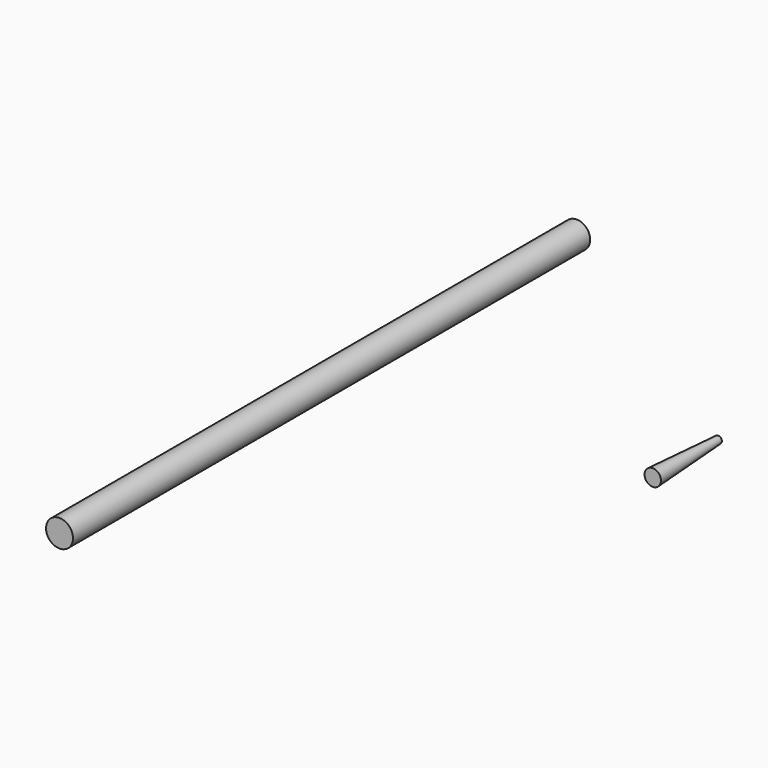
from build123d import *

# Parameters (mm, degrees)
F0_W = 3.175
F0_H = 152.4


with BuildPart() as f1:
    # F0 (on Top) → F1 (revolve)
    with BuildSketch(Plane.XY):
        with Locations((-52.66676, 0.269532)):
            Rectangle(F0_W, F0_H)
    revolve(axis=Axis((-54.25426, 0.269532, 0), (0, 1, 0)))


with BuildPart() as f3:
    # F2 (on Top) → F3 (revolve)
    with BuildSketch(Plane.XY):
        Polygon((18.009057, 28.941007), (17.146281, 28.941007), (17.146281, 9.637007), (19.087098, 9.637007), align=None)
    revolve(axis=Axis((17.146281, 19.289007, 0), (0, -1, 0)))


solid = Compound([f1.part, f3.part])
